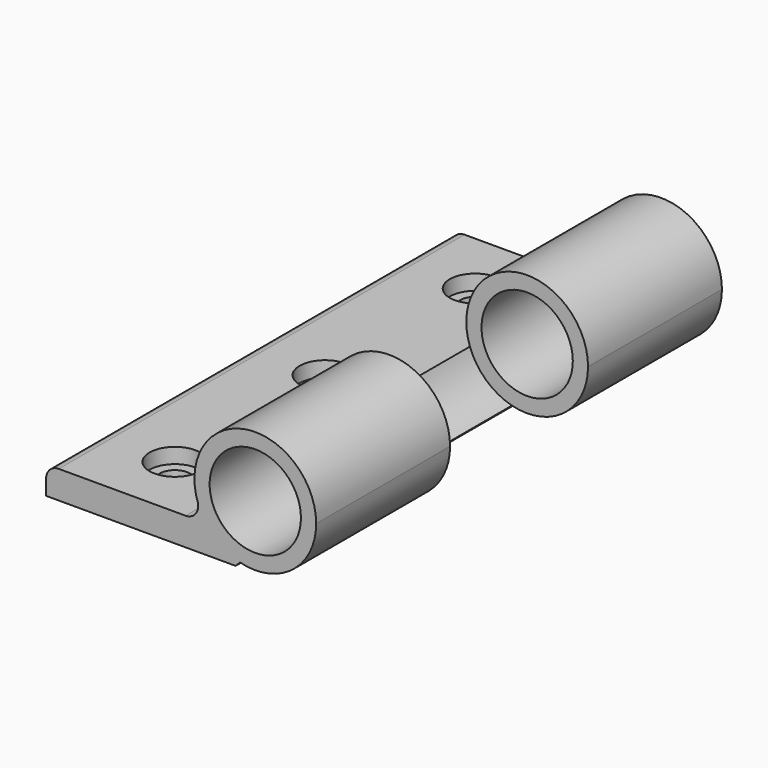
from build123d import *

# Parameters (mm, degrees)
F1_DEPTH  = 50
F2_R      = 2.5
F3_R      = 9
F4_DEPTH  = 100
F6_START  = -33
F5_R      = 12
F6_DEPTH  = 34
F7_R      = 5
F9_DEPTH  = 3
F8_R      = 3
F10_DEPTH = 2.5


with BuildPart() as f1:
    # F0 (on Front) → F1 (new body, symmetric)
    with BuildSketch(Plane.XZ):
        with BuildLine():
            Line((27.5, 5.5), (0, 5.5))
            Line((0, 5.5), (0, 0))
            Line((0, 0), (37.3689500386, 0))
            Line((37.3689500386, 0), (38.25, 0.8810499614))
            ThreePointArc((38.25, 0.8810499614), (33.172918626, 3.6252742871), (29.9640842591, 8.4222425415))
            ThreePointArc((29.9640842591, 8.4222425415), (29.4112308016, 6.388417913), (27.5, 5.5))
        make_face()
        with BuildLine():
            ThreePointArc((53.25, 12.5), (39.1800952788, 24.320130898), (29.9640842591, 8.4222425415))
            ThreePointArc((29.9640842591, 8.4222425415), (33.172918626, 3.6252742871), (38.25, 0.8810499614))
            ThreePointArc((38.25, 0.8810499614), (48.5984692283, 3.0131670195), (53.25, 12.5))
        make_face()
    extrude(amount=F1_DEPTH, both=True)

    # F2
    f2_edges = [f1.edges().sort_by_distance(p)[0] for p in [
        (0, 0, 5.5),
    ]]
    fillet(f2_edges, radius=F2_R)

    # F3 (on face) → F4 (cut, through all)
    with BuildSketch(Plane.XZ.offset(50)):
        with Locations((41.25, 12.5)):
            Circle(F3_R)
    extrude(amount=-F4_DEPTH, mode=Mode.SUBTRACT)

    # F5 (on face) → F6 (cut)
    with BuildSketch(Plane.XZ.offset(50).offset(F6_START)):
        with Locations((41.25, 12.5)):
            Circle(F5_R)
    extrude(amount=-F6_DEPTH, mode=Mode.SUBTRACT)

    # F7 (on face) → F9 (cut)
    with BuildSketch(Plane.XY.offset(5.5)):
        with Locations((15, 0)):
            Circle(F7_R)
        with Locations((15, 37)):
            Circle(F7_R)
        with Locations((15, -37)):
            Circle(F7_R)
    extrude(amount=-F9_DEPTH, mode=Mode.SUBTRACT)

    # F8 (on face) → F10 (cut, through all)
    with BuildSketch(Plane(origin=(0, 0, 0), x_dir=(1, 0, 0), z_dir=(0, 0, -1))):
        with Locations((15, -37)):
            Circle(F8_R)
        with Locations((15, 0)):
            Circle(F8_R)
        with Locations((15, 37)):
            Circle(F8_R)
    extrude(amount=-F10_DEPTH, mode=Mode.SUBTRACT)


solid = f1.part
